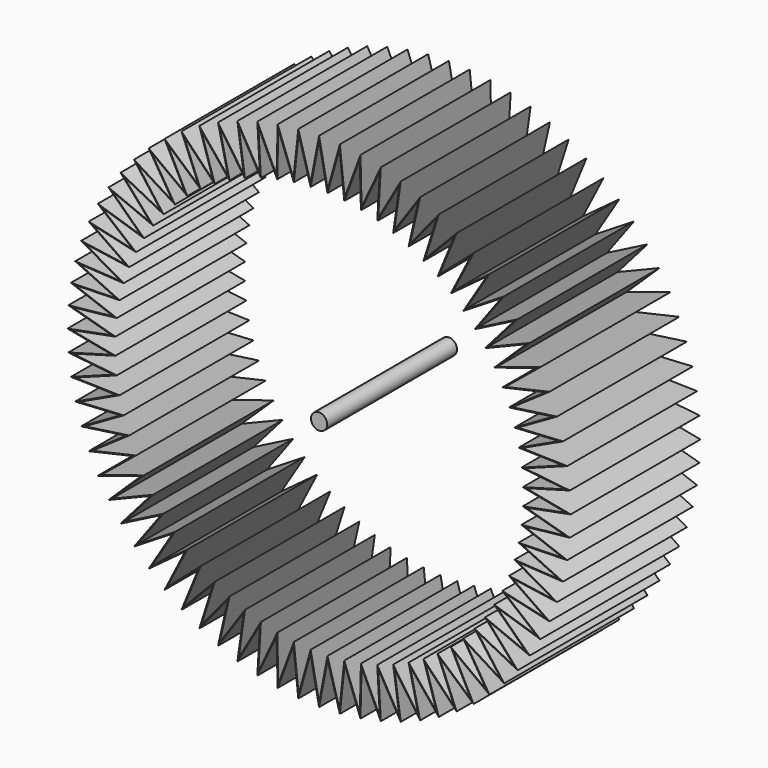
from build123d import *

# Parameters (mm, degrees)
F0_R     = 3.175
F1_DEPTH = 63.5


with BuildPart() as f1:
    # F0 (on Front) → F1 (new body)
    with BuildSketch(Plane.XZ):
        Polygon((81.002095, -3.350271), (98.425, 0), (81.002095, 3.350271), (98.088829, 8.127872), (80.448769, 10.027929), (97.082611, 16.200223), (79.345896, 16.637085), (95.413221, 24.161909), (77.70101, 23.132593), (93.092062, 31.958545), (75.525347, 29.470082), (90.13499, 39.536872), (72.83377, 35.60626), (86.562204, 46.845122), (69.644664, 41.499212), (82.398111, 53.833372), (65.979814, 47.108682), (77.671155, 60.453886), (61.864255, 52.396352), (72.413626, 66.661439), (57.326101, 57.326101), (66.661439, 72.413626), (52.396352, 61.864255), (60.453886, 77.671155), (47.108682, 65.979814), (53.833372, 82.398111), (41.499212, 69.644664), (46.845122, 86.562204), (35.60626, 72.83377), (39.536872, 90.13499), (29.470082, 75.525347), (31.958545, 93.092062), (23.132593, 77.70101), (24.161909, 95.413221), (16.637085, 79.345896), (16.200223, 97.082611), (10.027929, 80.448769), (8.127872, 98.088829), (3.350271, 81.002095), (0, 98.425), (-3.350271, 81.002095), (-8.127872, 98.088829), (-10.027929, 80.448769), (-16.200223, 97.082611), (-16.637085, 79.345896), (-24.161909, 95.413221), (-23.132593, 77.70101), (-31.958545, 93.092062), (-29.470082, 75.525347), (-39.536872, 90.13499), (-35.60626, 72.83377), (-46.845122, 86.562204), (-41.499212, 69.644664), (-53.833372, 82.398111), (-47.108682, 65.979814), (-60.453886, 77.671155), (-52.396352, 61.864255), (-66.661439, 72.413626), (-57.326101, 57.326101), (-72.413626, 66.661439), (-61.864255, 52.396352), (-77.671155, 60.453886), (-65.979814, 47.108682), (-82.398111, 53.833372), (-69.644664, 41.499212), (-86.562204, 46.845122), (-72.83377, 35.60626), (-90.13499, 39.536872), (-75.525347, 29.470082), (-93.092062, 31.958545), (-77.70101, 23.132593), (-95.413221, 24.161909), (-79.345896, 16.637085), (-97.082611, 16.200223), (-80.448769, 10.027929), (-98.088829, 8.127872), (-81.002095, 3.350271), (-98.425, 0), (-81.002095, -3.350271), (-98.088829, -8.127872), (-80.448769, -10.027929), (-97.082611, -16.200223), (-79.345896, -16.637085), (-95.413221, -24.161909), (-77.70101, -23.132593), (-93.092062, -31.958545), (-75.525347, -29.470082), (-90.13499, -39.536872), (-72.83377, -35.60626), (-86.562204, -46.845122), (-69.644664, -41.499212), (-82.398111, -53.833372), (-65.979814, -47.108682), (-77.671155, -60.453886), (-61.864255, -52.396352), (-72.413626, -66.661439), (-57.326101, -57.326101), (-66.661439, -72.413626), (-52.396352, -61.864255), (-60.453886, -77.671155), (-47.108682, -65.979814), (-53.833372, -82.398111), (-41.499212, -69.644664), (-46.845122, -86.562204), (-35.60626, -72.83377), (-39.536872, -90.13499), (-29.470082, -75.525347), (-31.958545, -93.092062), (-23.132593, -77.70101), (-24.161909, -95.413221), (-16.637085, -79.345896), (-16.200223, -97.082611), (-10.027929, -80.448769), (-8.127872, -98.088829), (-3.350271, -81.002095), (0, -98.425), (3.350271, -81.002095), (8.127872, -98.088829), (10.027929, -80.448769), (16.200223, -97.082611), (16.637085, -79.345896), (24.161909, -95.413221), (23.132593, -77.70101), (31.958545, -93.092062), (29.470082, -75.525347), (39.536872, -90.13499), (35.60626, -72.83377), (46.845122, -86.562204), (41.499212, -69.644664), (53.833372, -82.398111), (47.108682, -65.979814), (60.453886, -77.671155), (52.396352, -61.864255), (66.661439, -72.413626), (57.326101, -57.326101), (72.413626, -66.661439), (61.864255, -52.396352), (77.671155, -60.453886), (65.979814, -47.108682), (82.398111, -53.833372), (69.644664, -41.499212), (86.562204, -46.845122), (72.83377, -35.60626), (90.13499, -39.536872), (75.525347, -29.470082), (93.092062, -31.958545), (77.70101, -23.132593), (95.413221, -24.161909), (79.345896, -16.637085), (97.082611, -16.200223), (80.448769, -10.027929), (98.088829, -8.127872), align=None)
        Polygon((96.506751, 7.996777), (79.69561, 3.296235), (96.8375, 0), (79.69561, -3.296235), (96.506751, -7.996777), (79.151208, -9.866188), (95.516763, -15.938929), (78.066123, -16.368745), (93.874298, -23.772201), (76.447768, -22.759487), (91.590577, -31.443085), (74.307196, -28.994758), (88.6812, -38.899181), (71.659031, -35.031966), (85.166039, -46.089556), (68.521363, -40.82987), (81.069109, -52.965092), (64.915623, -46.348864), (76.418394, -59.478824), (60.866445, -51.551249), (71.245664, -65.586254), (56.401487, -56.401487), (65.586254, -71.245664), (51.551249, -60.866445), (59.478824, -76.418394), (46.348864, -64.915623), (52.965092, -81.069109), (40.82987, -68.521363), (46.089556, -85.166039), (35.031966, -71.659031), (38.899181, -88.6812), (28.994758, -74.307196), (31.443085, -91.590577), (22.759487, -76.447768), (23.772201, -93.874298), (16.368745, -78.066123), (15.938929, -95.516763), (9.866188, -79.151208), (7.996777, -96.506751), (3.296235, -79.69561), (0, -96.8375), (-3.296235, -79.69561), (-7.996777, -96.506751), (-9.866188, -79.151208), (-15.938929, -95.516763), (-16.368745, -78.066123), (-23.772201, -93.874298), (-22.759487, -76.447768), (-31.443085, -91.590577), (-28.994758, -74.307196), (-38.899181, -88.6812), (-35.031966, -71.659031), (-46.089556, -85.166039), (-40.82987, -68.521363), (-52.965092, -81.069109), (-46.348864, -64.915623), (-59.478824, -76.418394), (-51.551249, -60.866445), (-65.586254, -71.245664), (-56.401487, -56.401487), (-71.245664, -65.586254), (-60.866445, -51.551249), (-76.418394, -59.478824), (-64.915623, -46.348864), (-81.069109, -52.965092), (-68.521363, -40.82987), (-85.166039, -46.089556), (-71.659031, -35.031966), (-88.6812, -38.899181), (-74.307196, -28.994758), (-91.590577, -31.443085), (-76.447768, -22.759487), (-93.874298, -23.772201), (-78.066123, -16.368745), (-95.516763, -15.938929), (-79.151208, -9.866188), (-96.506751, -7.996777), (-79.69561, -3.296235), (-96.8375, 0), (-79.69561, 3.296235), (-96.506751, 7.996777), (-79.151208, 9.866188), (-95.516763, 15.938929), (-78.066123, 16.368745), (-93.874298, 23.772201), (-76.447768, 22.759487), (-91.590577, 31.443085), (-74.307196, 28.994758), (-88.6812, 38.899181), (-71.659031, 35.031966), (-85.166039, 46.089556), (-68.521363, 40.82987), (-81.069109, 52.965092), (-64.915623, 46.348864), (-76.418394, 59.478824), (-60.866445, 51.551249), (-71.245664, 65.586254), (-56.401487, 56.401487), (-65.586254, 71.245664), (-51.551249, 60.866445), (-59.478824, 76.418394), (-46.348864, 64.915623), (-52.965092, 81.069109), (-40.82987, 68.521363), (-46.089556, 85.166039), (-35.031966, 71.659031), (-38.899181, 88.6812), (-28.994758, 74.307196), (-31.443085, 91.590577), (-22.759487, 76.447768), (-23.772201, 93.874298), (-16.368745, 78.066123), (-15.938929, 95.516763), (-9.866188, 79.151208), (-7.996777, 96.506751), (-3.296235, 79.69561), (0, 96.8375), (3.296235, 79.69561), (7.996777, 96.506751), (9.866188, 79.151208), (15.938929, 95.516763), (16.368745, 78.066123), (23.772201, 93.874298), (22.759487, 76.447768), (31.443085, 91.590577), (28.994758, 74.307196), (38.899181, 88.6812), (35.031966, 71.659031), (46.089556, 85.166039), (40.82987, 68.521363), (52.965092, 81.069109), (46.348864, 64.915623), (59.478824, 76.418394), (51.551249, 60.866445), (65.586254, 71.245664), (56.401487, 56.401487), (71.245664, 65.586254), (60.866445, 51.551249), (76.418394, 59.478824), (64.915623, 46.348864), (81.069109, 52.965092), (68.521363, 40.82987), (85.166039, 46.089556), (71.659031, 35.031966), (88.6812, 38.899181), (74.307196, 28.994758), (91.590577, 31.443085), (76.447768, 22.759487), (93.874298, 23.772201), (78.066123, 16.368745), (95.516763, 15.938929), (79.151208, 9.866188), align=None, mode=Mode.SUBTRACT)
        Circle(F0_R)
    extrude(amount=-F1_DEPTH)


solid = f1.part
